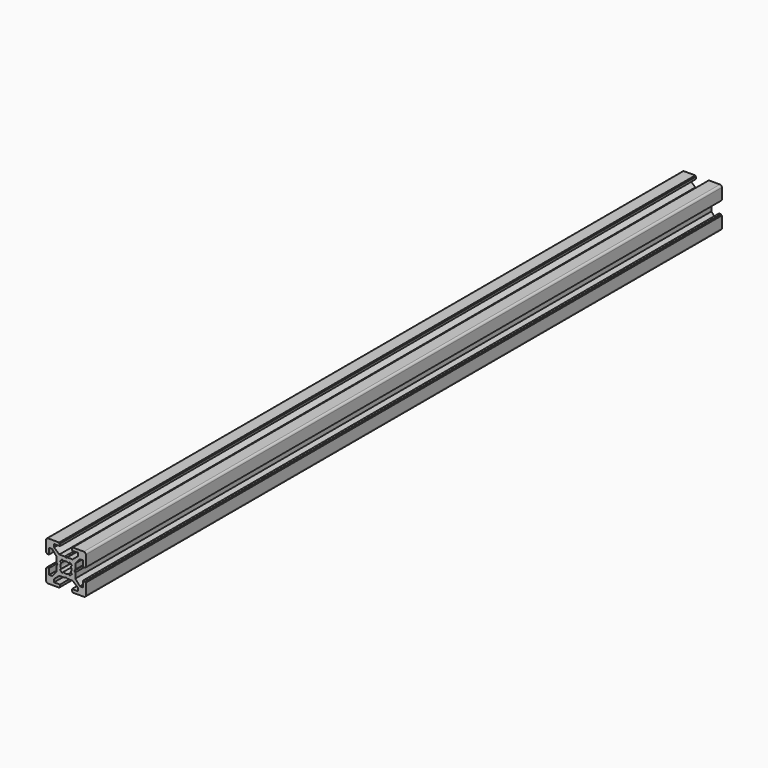
from build123d import *

# Parameters (mm, degrees)
PAD_DEPTH          = 400
POCKET_DEPTH       = 400
POLARPATTERN_COUNT = 4
POCKET001_DEPTH    = 400


with BuildPart() as part:
    # Sketch → Pad (new body)
    with BuildSketch(Plane.XZ):
        with BuildLine():
            Line((-9, 10), (9, 10))
            ThreePointArc((10, 9), (9.707107, 9.707107), (9, 10))
            Line((10, 9), (10, -9))
            ThreePointArc((9, -10), (9.707107, -9.707107), (10, -9))
            Line((9, -10), (-9, -10))
            ThreePointArc((-10, -9), (-9.707107, -9.707107), (-9, -10))
            Line((-10, -9), (-10, 9))
            ThreePointArc((-9, 10), (-9.707107, 9.707107), (-10, 9))
        make_face()
    extrude(amount=PAD_DEPTH)

    # Sketch001 (on Face10 of Pad) → Pocket (cut)
    with BuildSketch(Plane.XZ.offset(400)):
        Polygon((-3.4, 10), (-3.4, 9.6), (-3, 9.6), (-3, 8.5), (-6, 8.5), (-6, 7), (-3.35, 4.7), (-0.65, 4.7), (0, 4.3), (0.65, 4.7), (3.35, 4.7), (6, 7), (6, 8.5), (3, 8.5), (3, 9.6), (3.4, 9.6), (3.4, 10), align=None)
    pocket = extrude(amount=-POCKET_DEPTH, mode=Mode.SUBTRACT)

    # PolarPattern: Pocket ×4 about axis
    polarpattern_axis = Axis((0, -400, 0), (0, -1, 0))
    for i in range(1, POLARPATTERN_COUNT):
        add(pocket.rotate(polarpattern_axis, i * 360 / POLARPATTERN_COUNT), mode=Mode.SUBTRACT)

    # Sketch002 (on Face4 of PolarPattern) → Pocket001 (cut)
    with BuildSketch(Plane.XZ.offset(400)):
        with BuildLine():
            ThreePointArc((1.340499, 2.401159), (0, 2.75), (-1.340499, 2.401159))
            Line((-1.944544, 3.005204), (-1.340499, 2.401159))
            Line((-3.005204, 1.944544), (-1.944544, 3.005204))
            Line((-2.401159, 1.340499), (-3.005204, 1.944544))
            ThreePointArc((-2.401159, 1.340499), (-2.75, 0), (-2.401159, -1.340499))
            Line((-3.005204, -1.944544), (-2.401159, -1.340499))
            Line((-1.944544, -3.005204), (-3.005204, -1.944544))
            Line((-1.340499, -2.401159), (-1.944544, -3.005204))
            ThreePointArc((-1.340499, -2.401159), (0, -2.75), (1.340499, -2.401159))
            Line((1.944544, -3.005204), (1.340499, -2.401159))
            Line((3.005204, -1.944544), (1.944544, -3.005204))
            Line((2.401159, -1.340499), (3.005204, -1.944544))
            ThreePointArc((2.401159, -1.340499), (2.75, 0), (2.401159, 1.340499))
            Line((2.401159, 1.340499), (3.005204, 1.944544))
            Line((3.005204, 1.944544), (1.944544, 3.005204))
            Line((1.944544, 3.005204), (1.340499, 2.401159))
        make_face()
    extrude(amount=-POCKET001_DEPTH, mode=Mode.SUBTRACT)


solid = part.part
